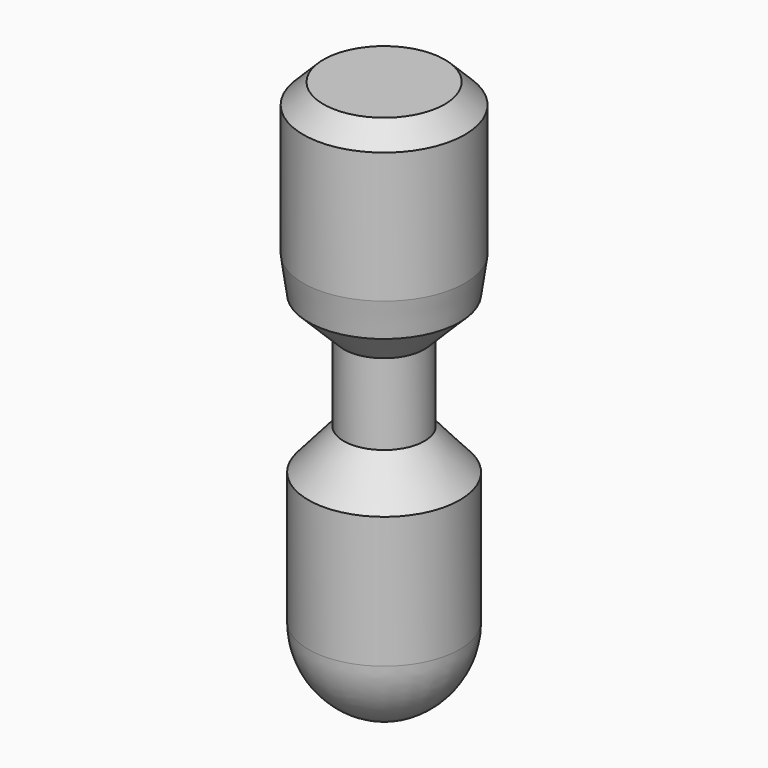
from build123d import *

# Parameters (mm, degrees)
F2_SIZE = 1


with BuildPart() as f1:
    # F0 (on Front) → F1 (revolve)
    with BuildSketch(Plane.XZ):
        with BuildLine():
            Line((4, 0), (0, 0))
            Line((0, 0), (0, -27.5))
            ThreePointArc((0, -27.5), (2.665476, -26.246433), (3.75, -23.50782))
            Line((3.75, -23.50782), (3.75, -17))
            Line((3.75, -17), (2, -15))
            Line((2, -15), (2, -11))
            Line((2, -11), (3.75, -9.25))
            Line((3.75, -9.25), (4, -7.471158))
            Line((4, -7.471158), (4, 0))
        make_face()
    revolve(axis=Axis((0, 0, -13.75), (0, 0, -1)))

    # F2
    f2_edges = [f1.edges().sort_by_distance(p)[0] for p in [
        (-4, 0, 0),
    ]]
    chamfer(f2_edges, length=F2_SIZE)


solid = f1.part
